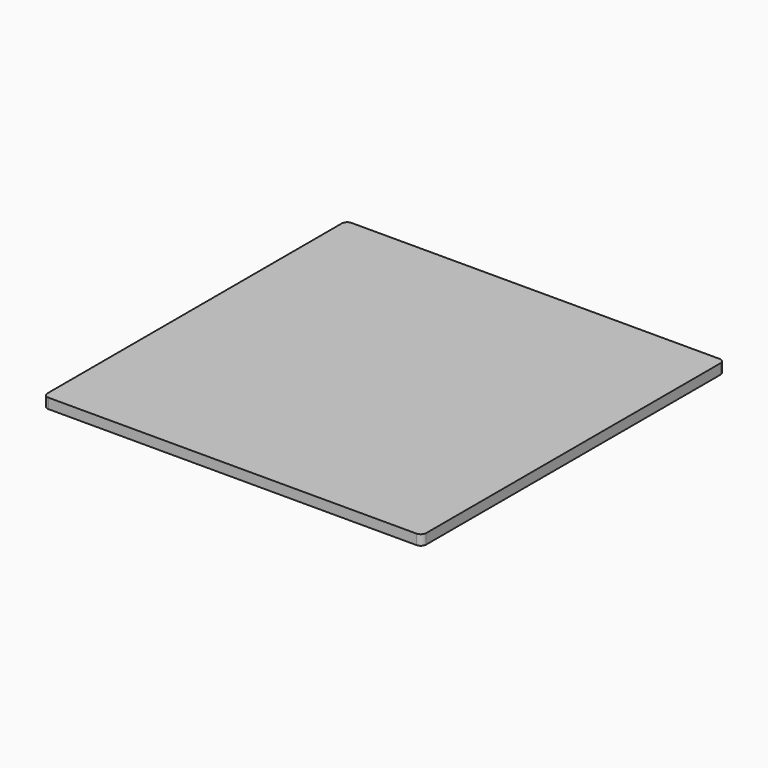
from build123d import *

# Parameters (mm, degrees)
F0_W     = 355.6
F0_H     = 355.6
F1_DEPTH = 4.7625
F2_R     = 5.08


with BuildPart() as f1:
    # F0 (on Top) → F1 (new body, symmetric)
    with BuildSketch(Plane.XY):
        Rectangle(F0_W, F0_H)
    extrude(amount=F1_DEPTH, both=True)

    # F2
    f2_edges = [f1.edges().sort_by_distance(p)[0] for p in [
        (-177.8, 177.8, 0),
        (-177.8, -177.8, 0),
        (177.8, -177.8, 0),
        (177.8, 177.8, 0),
    ]]
    fillet(f2_edges, radius=F2_R)


solid = f1.part
